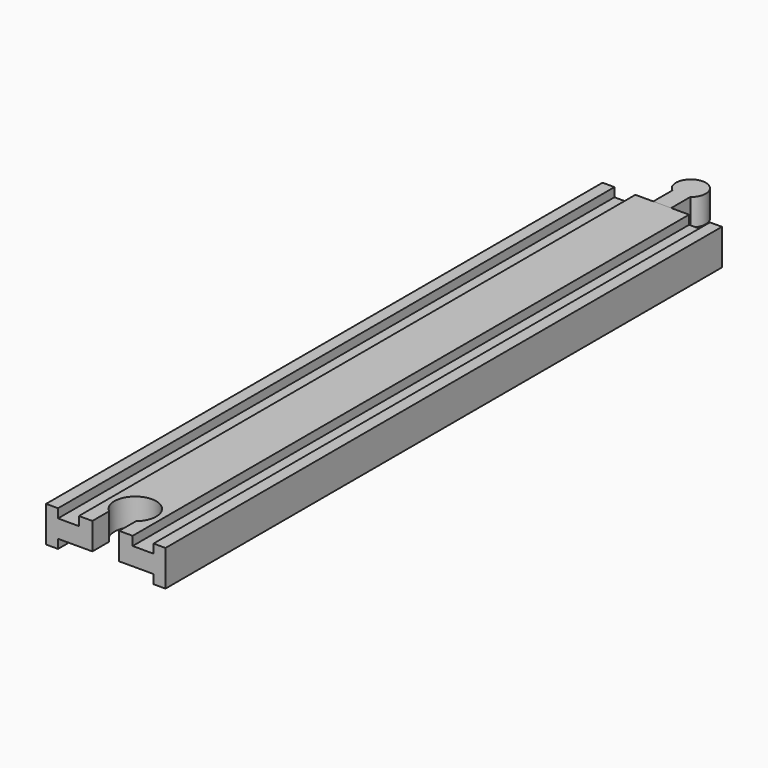
from build123d import *

# Parameters (mm, degrees)
PAD_DEPTH         = 233
POCKET_DEPTH      = 12.001
PAD001_DEPTH      = 6
PAD001_DEPTH_BACK = 3


with BuildPart() as body:
    # Sketch → Pad (new body)
    with BuildSketch(Plane.XZ):
        Polygon((-20, 6), (-20, -6), (-16, -6), (-16, -3), (-9, -3), (9, -3), (16, -3), (16, -6), (20, -6), (20, 6), (16, 6), (16, 3), (9, 3), (9, 6), (-9, 6), (-9, 3), (-16, 3), (-16, 6), align=None)
    extrude(amount=PAD_DEPTH)

    # Sketch002 (on Face14 of Pad) → Pocket (cut, through all)
    with BuildSketch(Plane(origin=(0, 0, 6), x_dir=(-1, 0, 0), z_dir=(0, 0, 1))):
        with BuildLine():
            Line((-4.5, 233), (4.5, 233))
            Line((4.5, 233), (4.5, 226))
            ThreePointArc((-4.5, 226), (0, 213.638097), (4.5, 226))
            Line((-4.5, 233), (-4.5, 226))
        make_face()
    extrude(amount=-POCKET_DEPTH, mode=Mode.SUBTRACT)


with BuildPart() as body001:
    # Sketch001 → Pad001 (new body, two sides)
    with BuildSketch(Plane.XY) as pad001_sk:
        with BuildLine():
            Line((-3, 0), (3, 0))
            Line((3, 0), (3, 8))
            ThreePointArc((3, 8), (0, 17), (-3, 8))
            Line((-3, 0), (-3, 8))
        make_face()
    extrude(amount=PAD001_DEPTH)
    extrude(pad001_sk.sketch, amount=-PAD001_DEPTH_BACK)


solid = Compound([body.part, body001.part])
